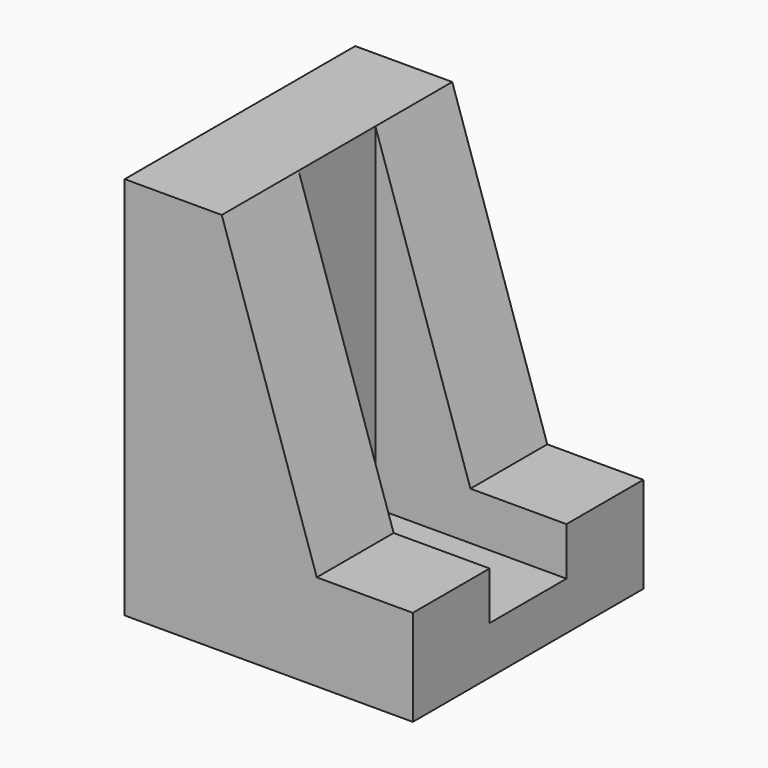
from build123d import *

# Parameters (mm, degrees)
F1_DEPTH = 30
F2_W     = 44.419645
F2_H     = 10
F3_DEPTH = 35


with BuildPart() as f1:
    # F0 (on Front) → F1 (new body)
    with BuildSketch(Plane.XZ):
        Polygon((10.106954, 40), (0, 40), (0, 0), (30, 0), (30, 10), (20, 10), align=None)
    extrude(amount=F1_DEPTH)

    # F2 (on face) → F3 (cut)
    with BuildSketch(Plane.XY.offset(40)):
        with Locations((32.316776, -15)):
            Rectangle(F2_W, F2_H)
    extrude(amount=-F3_DEPTH, mode=Mode.SUBTRACT)


solid = f1.part
